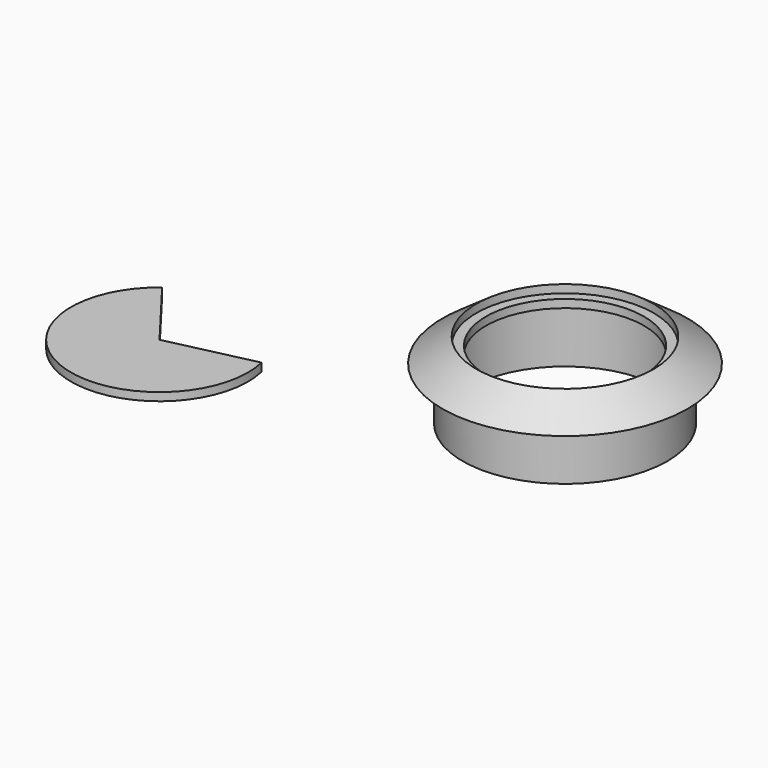
from build123d import *

# Parameters (mm, degrees)
F3_DEPTH = 2


with BuildPart() as f1:
    # F0 (on Front) → F1 (revolve)
    with BuildSketch(Plane.XZ):
        with BuildLine():
            Line((23.8, 13), (23.8, 0))
            Line((23.8, 0), (25.3, 0))
            Line((25.3, 0), (25.3, 13))
            Line((25.3, 13), (30.3, 13))
            Line((30.3, 13), (21.889582, 18.910418))
            Line((21.889582, 18.910418), (21.889582, 16.910418))
            Line((21.889582, 16.910418), (19.526197, 16.910418))
            Line((19.526197, 16.910418), (19.526197, 14.910418))
            Line((19.526197, 14.910418), (21.889582, 14.910418))
            ThreePointArc((21.889582, 14.910418), (23.240451, 14.35087), (23.8, 13))
        make_face()
    revolve(axis=Axis((0, 0, 4.076657), (0, 0, -1)))


with BuildPart() as f3:
    # F2 (on Top) → F3 (new body)
    with BuildSketch(Plane.XY):
        with BuildLine():
            Line((-80.540635, -24.595225), (-93.814795, -7.192371))
            ThreePointArc((-93.814795, -7.192371), (-87.999208, -45.172696), (-59.198554, -19.739479))
            Line((-59.198554, -19.739479), (-80.540635, -24.595225))
        make_face()
        with BuildLine():
            Line((-80.540635, -24.595225), (-93.814795, -7.192371))
            ThreePointArc((-93.814795, -7.192371), (-87.999208, -45.172696), (-59.198554, -19.739479))
            Line((-59.198554, -19.739479), (-80.540635, -24.595225))
        make_face()
    extrude(amount=F3_DEPTH)


solid = Compound([f1.part, f3.part])
